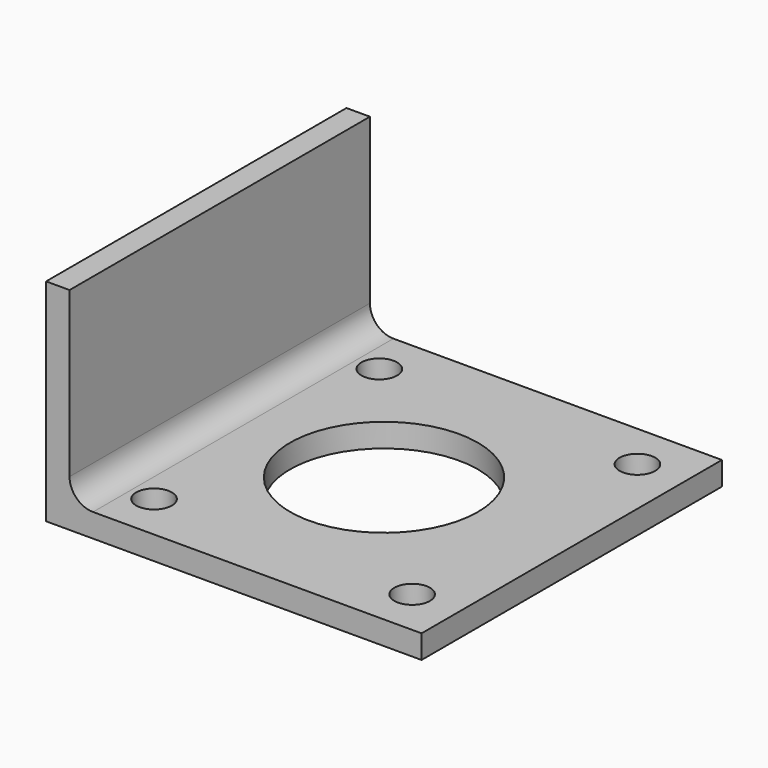
from build123d import *

# Parameters (mm, degrees)
F1_DEPTH = 50.8
F2_R     = 2.413
F2_R_2   = 12.7
F3_DEPTH = 3.175


with BuildPart() as f1:
    # F0 (on Front) → F1 (new body)
    with BuildSketch(Plane.XZ):
        with BuildLine():
            Line((0, 28.575), (0, 0))
            Line((0, 0), (50.8, 0))
            Line((50.8, 0), (50.8, 3.175))
            Line((50.8, 3.175), (6.35, 3.175))
            ThreePointArc((6.35, 3.175), (4.104936, 4.104936), (3.175, 6.35))
            Line((3.175, 6.35), (3.175, 28.575))
            Line((3.175, 28.575), (0, 28.575))
        make_face()
    extrude(amount=F1_DEPTH)

    # F2 (on face) → F3 (cut, through all)
    with BuildSketch(Plane(origin=(0, 0, 0), x_dir=(1, 0, 0), z_dir=(0, 0, -1))):
        with Locations((44.45, 44.45)):
            Circle(F2_R)
        with Locations((44.45, 6.35)):
            Circle(F2_R)
        with Locations((25.4, 25.4)):
            Circle(F2_R_2)
        with Locations((9.525, 6.35)):
            Circle(F2_R)
        with Locations((9.525, 44.45)):
            Circle(F2_R)
    extrude(amount=-F3_DEPTH, mode=Mode.SUBTRACT)


solid = f1.part
